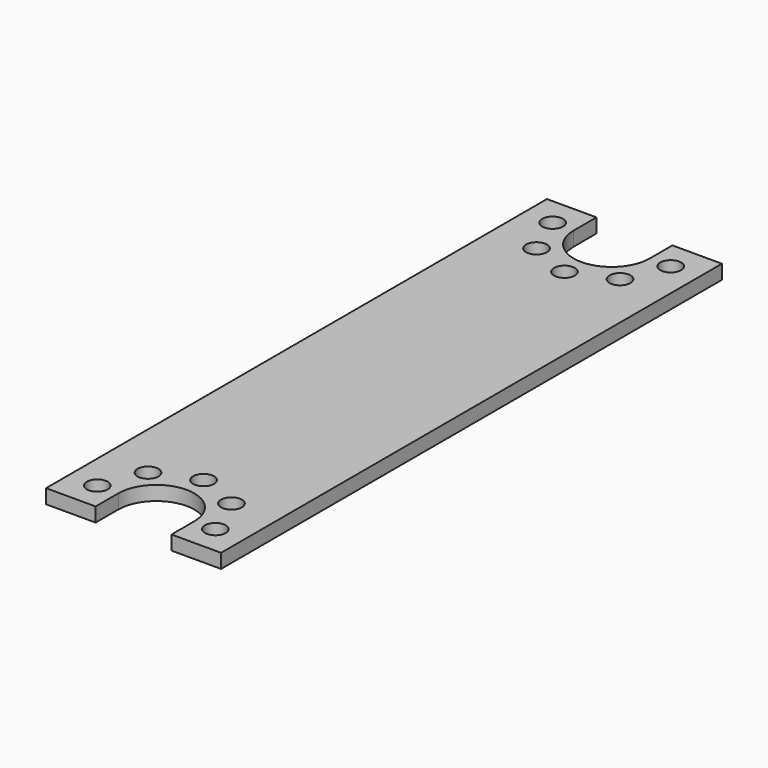
from build123d import *

# Parameters (mm, degrees)
F0_R     = 1.1
F1_DEPTH = 1.5
F2_R     = 1.1
F3_DEPTH = 1.5


with BuildPart() as f1:
    # F0 (on Top) → F1 (new body)
    with BuildSketch(Plane.XY):
        with BuildLine():
            Line((9.22254, 33), (-9.22254, 33))
            Line((-9.22254, 33), (-9.22254, -33))
            Line((-9.22254, -33), (-4, -33))
            Line((-4, -33), (-4, -30))
            ThreePointArc((-4, -30), (0, -26), (4, -30))
            Line((4, -30), (4, -33))
            Line((4, -33), (9.22254, -33))
            Line((9.22254, -33), (9.22254, 19.77746))
            Line((9.22254, 19.77746), (6.22254, 19.77746))
            ThreePointArc((6.22254, 19.77746), (2.22254, 23.77746), (6.22254, 27.77746))
            Line((6.22254, 27.77746), (9.22254, 27.77746))
            Line((9.22254, 27.77746), (9.22254, 33))
        make_face()
        with Locations((-6.22254, -30)):
            Circle(F0_R, mode=Mode.SUBTRACT)
        with Locations((-4.4, -25.6)):
            Circle(F0_R, mode=Mode.SUBTRACT)
        with Locations((4.4, -25.6)):
            Circle(F0_R, mode=Mode.SUBTRACT)
        with Locations((0, -23.77746)):
            Circle(F0_R, mode=Mode.SUBTRACT)
        with Locations((6.22254, -30)):
            Circle(F0_R, mode=Mode.SUBTRACT)
        with Locations((1.82254, 19.37746)):
            Circle(F0_R, mode=Mode.SUBTRACT)
        with Locations((0, 23.77746)):
            Circle(F0_R, mode=Mode.SUBTRACT)
        with Locations((1.82254, 28.17746)):
            Circle(F0_R, mode=Mode.SUBTRACT)
        with Locations((6.22254, 17.554921)):
            Circle(F0_R, mode=Mode.SUBTRACT)
        with Locations((6.22254, 30)):
            Circle(F0_R, mode=Mode.SUBTRACT)
    extrude(amount=F1_DEPTH)

    # F2 (on face) → F3 (cut, through all)
    with BuildSketch(Plane.XY.offset(1.5)):
        with BuildLine():
            Line((-9.22254, 0), (9.22254, 0))
            Line((9.22254, 0), (9.22254, 19.77746))
            Line((9.22254, 19.77746), (6.22254, 19.77746))
            ThreePointArc((6.22254, 19.77746), (2.22254, 23.77746), (6.22254, 27.77746))
            Line((6.22254, 27.77746), (9.22254, 27.77746))
            Line((9.22254, 27.77746), (9.22254, 33))
            Line((9.22254, 33), (-9.22254, 33))
            Line((-9.22254, 33), (-9.22254, 0))
        make_face()
        with Locations((1.82254, 19.37746)):
            Circle(F2_R, mode=Mode.SUBTRACT)
        with Locations((0, 23.77746)):
            Circle(F2_R, mode=Mode.SUBTRACT)
        with Locations((1.82254, 28.17746)):
            Circle(F2_R, mode=Mode.SUBTRACT)
        with Locations((6.22254, 17.554921)):
            Circle(F2_R, mode=Mode.SUBTRACT)
        with Locations((6.22254, 30)):
            Circle(F2_R, mode=Mode.SUBTRACT)
    extrude(amount=-F3_DEPTH, mode=Mode.SUBTRACT)

    # F4: F1 across plane


with BuildPart() as f1_1:
    add(f1.part)
    add(f1.part.mirror(Plane.XZ))


solid = f1_1.part
